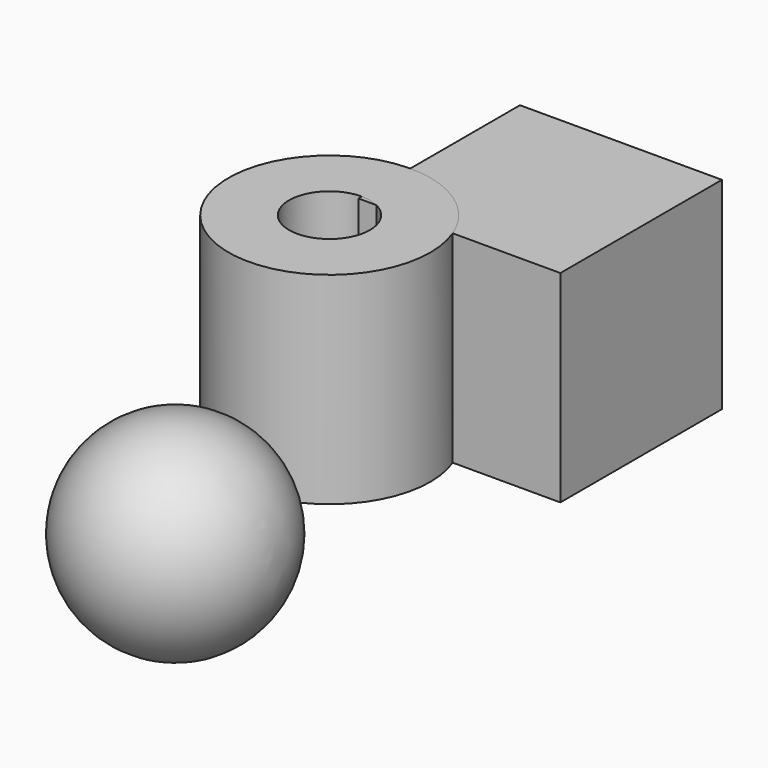
from build123d import *

# Parameters (mm, degrees)
BOX_W      = 10
BOX_H      = 10
BOX_DEPTH  = 10
TUBE_R     = 5
TUBE_R_2   = 2
TUBE_DEPTH = 10


with BuildPart() as cube:
    # Box → Box (new body)
    with BuildSketch(Plane(origin=(0, 1.79, 0), x_dir=(1, 0, 0), z_dir=(0, 0, 1))):
        with Locations((5, 5)):
            Rectangle(BOX_W, BOX_H)
    extrude(amount=BOX_DEPTH)


with BuildPart() as sphere:
    # Sphere → Sphere (revolve)
    with BuildSketch(Plane.XZ.offset(9.553)):
        with BuildLine():
            ThreePointArc((0, -5), (5, 0), (0, 5))
            Line((0, 5), (0, -5))
        make_face()
    revolve(axis=Axis((0, -9.553, 0), (0, 0, 1)))


with BuildPart() as tube:
    # Tube → Tube (new body)
    with BuildSketch(Plane.XY):
        Circle(TUBE_R)
        Circle(TUBE_R_2, mode=Mode.SUBTRACT)
    extrude(amount=TUBE_DEPTH)


solid = Compound([cube.part, sphere.part, tube.part])
